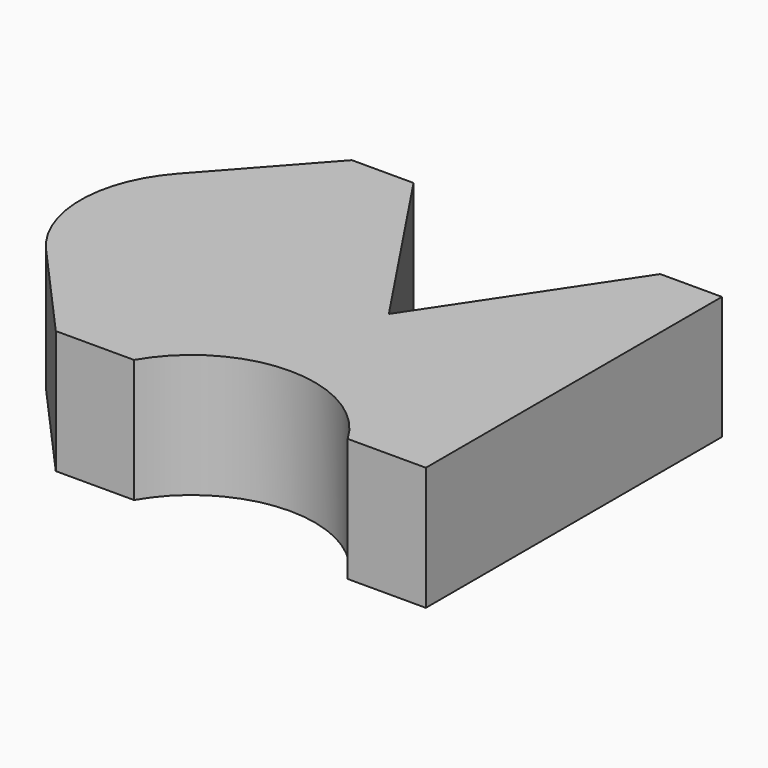
from build123d import *

# Parameters (mm, degrees)
F1_DEPTH = 20


with BuildPart() as f1:
    # F0 (on Top) → F1 (new body)
    with BuildSketch(Plane.XY):
        with BuildLine():
            Line((20, 30), (0, 0))
            Line((0, 0), (-20, 30))
            Line((-20, 30), (-30, 30))
            Line((-30, 30), (-44.90712, 13.333333))
            ThreePointArc((-44.90712, 13.333333), (-50, 0), (-44.90712, -13.333333))
            Line((-44.90712, -13.333333), (-30, -30))
            Line((-30, -30), (-17.320508, -30))
            ThreePointArc((-17.320508, -30), (0, -20), (17.320508, -30))
            Line((17.320508, -30), (30, -30))
            Line((30, -30), (30, 0))
            Line((30, 0), (30, 30))
            Line((30, 30), (20, 30))
        make_face()
    extrude(amount=F1_DEPTH)


solid = f1.part
